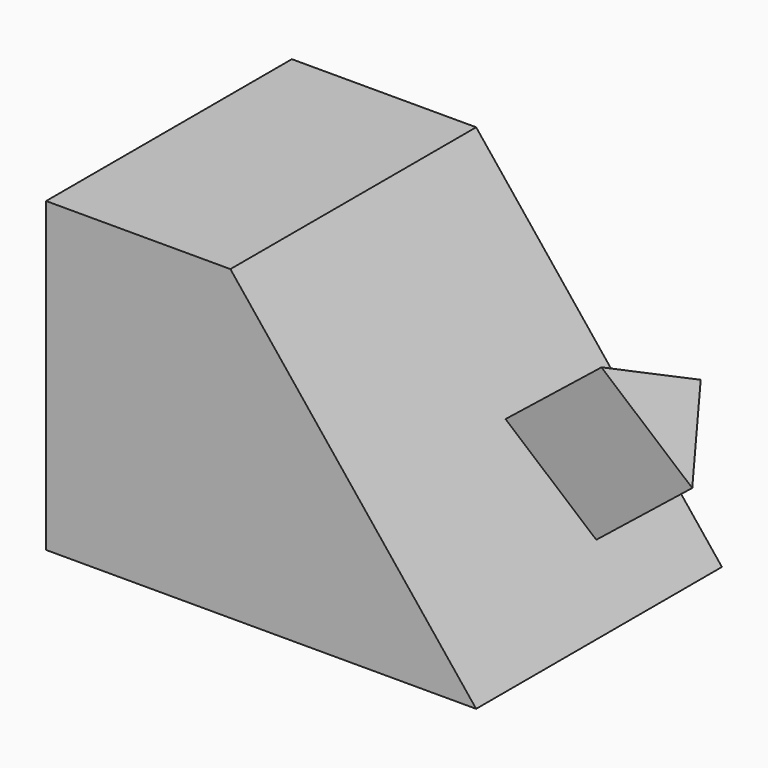
from build123d import *

# Parameters (mm, degrees)
F1_DEPTH = 63.5
F3_DEPTH = 25.4


with BuildPart() as f1:
    # F0 (on Front) → F1 (new body)
    with BuildSketch(Plane.XZ):
        Polygon((-63.103128, 16.393103), (-63.103128, -47.106897), (25.796872, -47.106897), (-25.003128, 16.393103), align=None)
    extrude(amount=-F1_DEPTH)

    # F2 (on face) → F3 (join)
    with BuildSketch(Plane(origin=(-7.249174, 0, -5.799339), x_dir=(0, 1, 0), z_dir=(0.780869, 0, 0.624695))):
        Polygon((55.396065, -24.504127), (37.371274, -14.751914), (41.925259, -38.956322), align=None)
    extrude(amount=F3_DEPTH)


solid = f1.part
